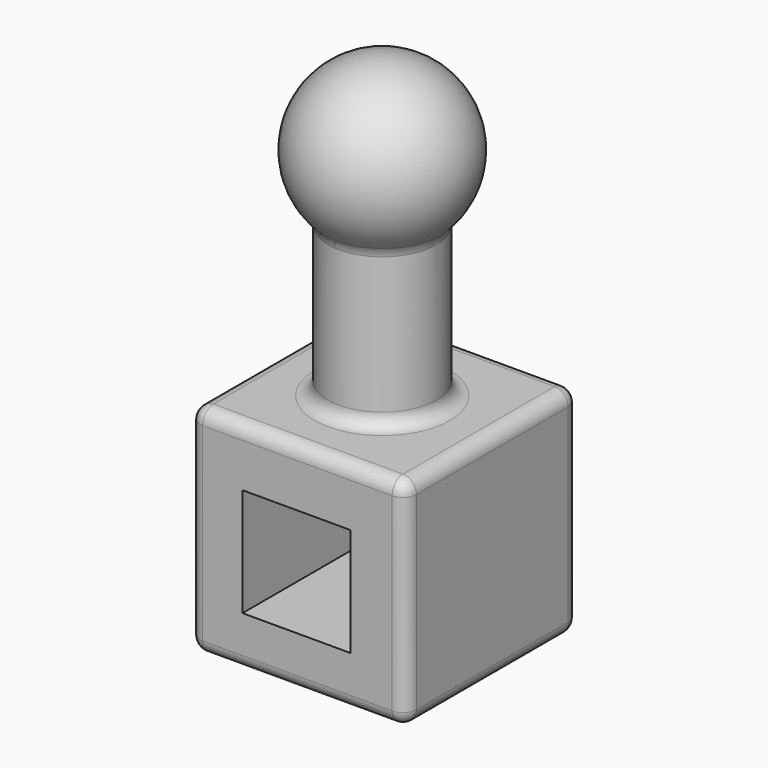
from build123d import *

# Parameters (mm, degrees)
F0_W     = 101.6
F0_H     = 101.6
F1_DEPTH = 101.6
F2_R     = 25.4
F3_DEPTH = 101.6
F6_W     = 50.8
F6_H     = 50.8
F7_DEPTH = 101.6
F8_R     = 6.35


with BuildPart() as f1:
    # F0 (on Top) → F1 (new body)
    with BuildSketch(Plane.XY):
        with Locations((0.3681425005, 0.5443057779)):
            Rectangle(F0_W, F0_H)
    extrude(amount=F1_DEPTH)

    # F2 (on face) → F3 (join)
    with BuildSketch(Plane.XY.offset(101.6)):
        Circle(F2_R)
    extrude(amount=F3_DEPTH)

    # F4 (on face) → F5 (revolve)
    with BuildSketch(Plane.XY.offset(203.2)):
        with BuildLine():
            Line((25.4, 0), (38.1, 0))
            ThreePointArc((38.1, 0), (0, 38.1), (-38.1, 0))
            Line((-38.1, 0), (-25.4, 0))
            ThreePointArc((-25.4, 0), (0, 25.4), (25.4, 0))
        make_face()
    revolve(axis=Axis((0, 0, 203.2), (1, 0, 0)))

    # F6 (on face) → F7 (cut)
    with BuildSketch(Plane(origin=(0, 51.3443057779, 0), x_dir=(-1, 0, 0), z_dir=(0, 1, 0))):
        with Locations((0, 49.2945600852)):
            Rectangle(F6_W, F6_H)
    extrude(amount=-F7_DEPTH, mode=Mode.SUBTRACT)

    # F8
    f8_edges = [f1.edges().sort_by_distance(p)[0] for p in [
        (51.168143, 0.544306, 101.6),
        (0.368143, 51.344306, 101.6),
        (51.168143, -50.255694, 50.8),
        (51.168143, 51.344306, 50.8),
        (51.168143, 0.544306, 0),
        (0.368143, 51.344306, 0),
        (-50.431857, 51.344306, 50.8),
        (-25.4, 0, 174.801937),
        (-25.4, 0, 101.6),
        (0.368143, -50.255694, 101.6),
        (-50.431857, -50.255694, 50.8),
        (0.368143, -50.255694, 0),
        (-50.431857, 0.544306, 101.6),
        (-50.431857, 0.544306, 0),
    ]]
    fillet(f8_edges, radius=F8_R)


solid = f1.part
